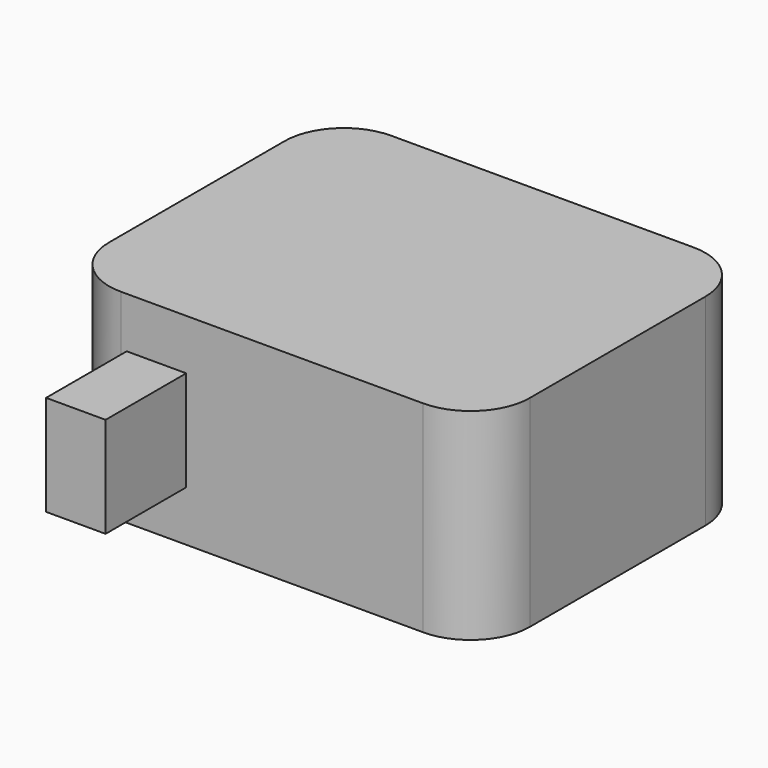
from build123d import *

# Parameters (mm, degrees)
F0_W     = 71
F0_H     = 57
F1_DEPTH = 34
F2_R     = 10
F3_W     = 10.040418
F3_H     = 16.936636
F4_DEPTH = 17


with BuildPart() as f1:
    # F0 (on Top) → F1 (new body)
    with BuildSketch(Plane.XY):
        Rectangle(F0_W, F0_H)
    extrude(amount=F1_DEPTH)

    # F2
    f2_edges = [f1.edges().sort_by_distance(p)[0] for p in [
        (-35.5, 28.5, 17),
        (35.5, 28.5, 17),
        (-35.5, -28.5, 17),
        (35.5, -28.5, 17),
    ]]
    fillet(f2_edges, radius=F2_R)

    # F3 (on face) → F4 (join)
    with BuildSketch(Plane.XZ.offset(28.5)):
        with Locations((-19.5, 17)):
            Rectangle(F3_W, F3_H)
    extrude(amount=F4_DEPTH)


solid = f1.part
